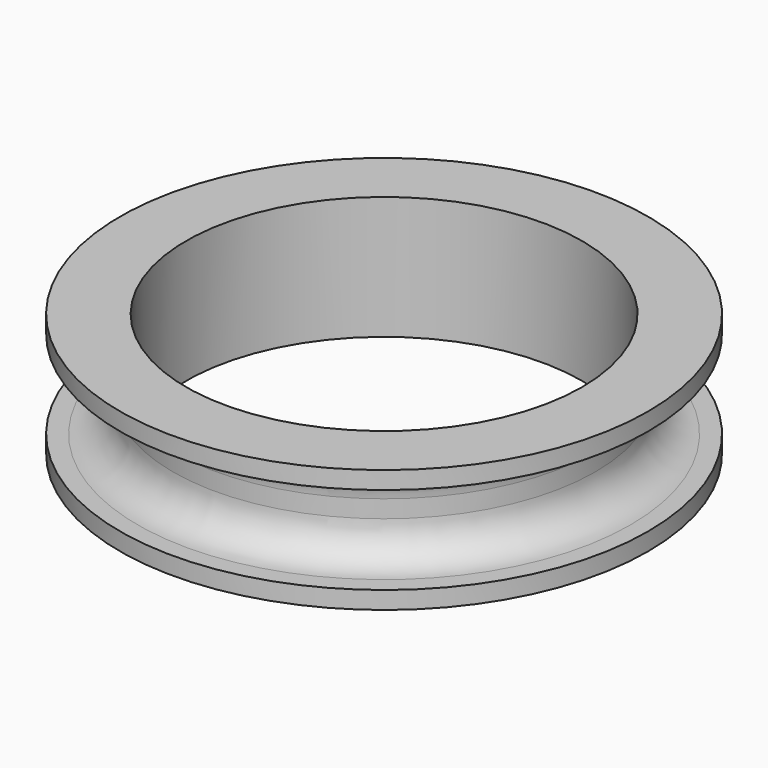
from build123d import *

# Parameters (mm, degrees)
F0_R        = 15
F0_R_2      = 12
F1_DEPTH    = 1
F0_R_3      = 11.25
F2_DEPTH    = 7
F3_START    = 5
F1_FACE_R   = 15
F1_FACE_R_2 = 12
F3_DEPTH    = 1
F4_R        = 2


with BuildPart() as f1:
    # F0 (on Top) → F1 (new body)
    with BuildSketch(Plane.XY):
        Circle(F0_R)
        Circle(F0_R_2, mode=Mode.SUBTRACT)
    extrude(amount=F1_DEPTH)

    # F0 (on Top) → F2 (join)
    with BuildSketch(Plane.XY):
        Circle(F0_R_2)
        Circle(F0_R_3, mode=Mode.SUBTRACT)
    extrude(amount=F2_DEPTH)

    # F1_face (on face) → F3 (join)
    with BuildSketch(Plane.XY.offset(1).offset(F3_START)):
        Circle(F1_FACE_R)
        Circle(F1_FACE_R_2, mode=Mode.SUBTRACT)
    extrude(amount=F3_DEPTH)

    # F4
    f4_edges = [f1.edges().sort_by_distance(p)[0] for p in [
        (12, 0, 3.5),
        (-12, 0, 6),
        (-12, 0, 1),
    ]]
    fillet(f4_edges, radius=F4_R)


solid = f1.part
